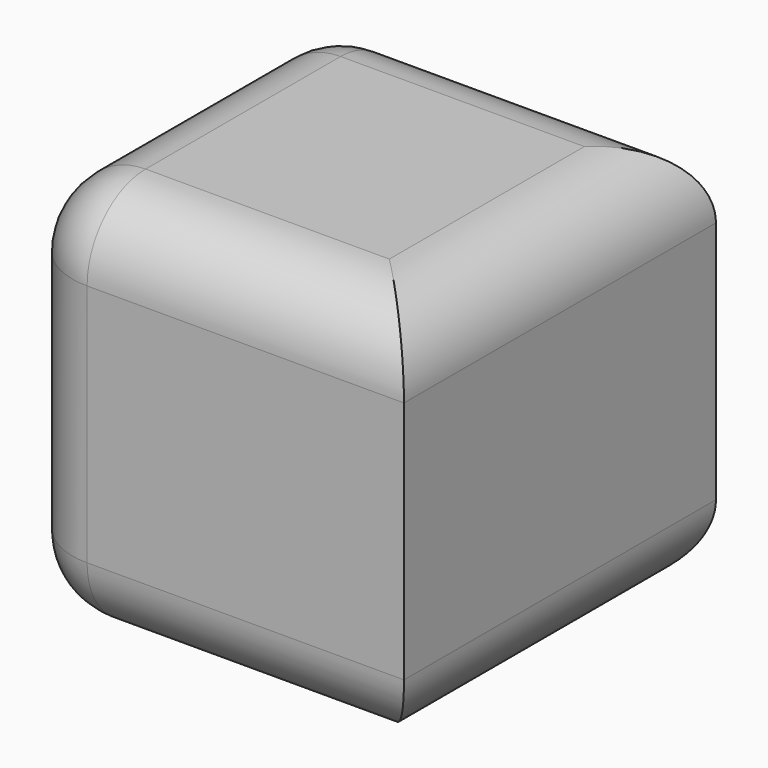
from build123d import *

# Parameters (mm, degrees)
F0_W     = 80
F0_H     = 80
F1_DEPTH = 40
F2_R     = 15


with BuildPart() as f1:
    # F0 (on Top) → F1 (new body, symmetric)
    with BuildSketch(Plane.XY):
        Rectangle(F0_W, F0_H)
    extrude(amount=F1_DEPTH, both=True)

    # F2
    f2_edges = [f1.edges().sort_by_distance(p)[0] for p in [
        (-40, 0, 40),
        (40, 0, 40),
        (0, -40, 40),
        (0, 40, 40),
        (-40, 0, -40),
        (-40, -40, 0),
        (-40, 40, 0),
        (0, 40, -40),
        (40, 0, -40),
        (0, -40, -40),
    ]]
    fillet(f2_edges, radius=F2_R)


solid = f1.part
